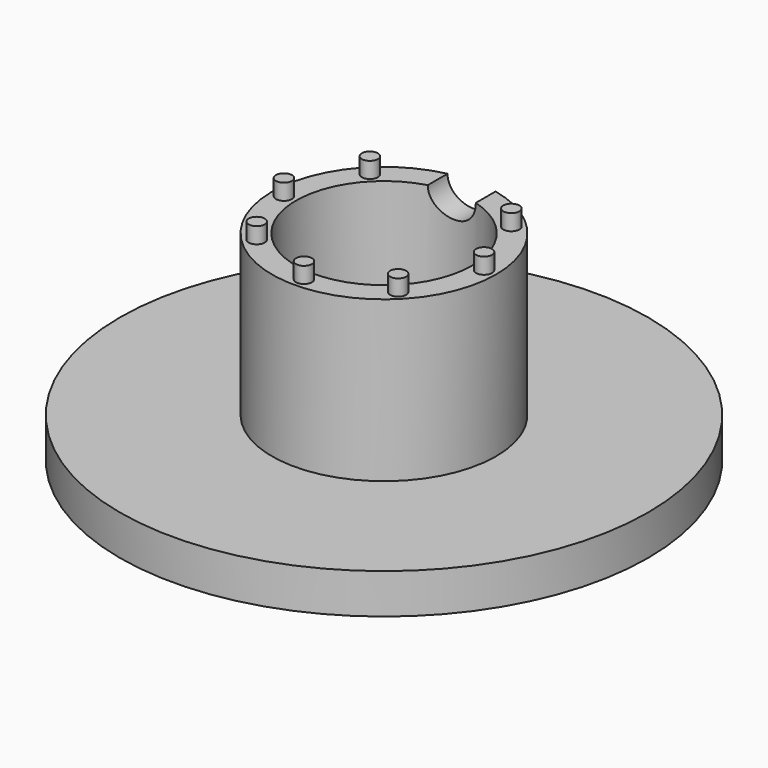
from build123d import *

# Parameters (mm, degrees)
F0_R     = 14
F0_R_2   = 11
F1_DEPTH = 25
F0_R_3   = 33
F2_DEPTH = 5
F3_R     = 3
F4_DEPTH = 25
F6_R     = 1
F7_DEPTH = 2


with BuildPart() as f1:
    # F0 (on Top) → F1 (new body)
    with BuildSketch(Plane.XY):
        Circle(F0_R)
        Circle(F0_R_2, mode=Mode.SUBTRACT)
    extrude(amount=F1_DEPTH)

    # F0 (on Top) → F2 (join)
    with BuildSketch(Plane.XY):
        Circle(F0_R_3)
        Circle(F0_R, mode=Mode.SUBTRACT)
    extrude(amount=F2_DEPTH)

    # F3 (on Front) → F4 (cut)
    with BuildSketch(Plane.XZ):
        with Locations((0, 25)):
            Circle(F3_R)
    extrude(amount=-F4_DEPTH, mode=Mode.SUBTRACT)

    # F6 (on offset) → F7 (join)
    with BuildSketch(Plane.XY.offset(25)):
        with Locations((-8.8388347648, 8.8388347648)):
            Circle(F6_R)
        with Locations((8.8388347648, 8.8388347648)):
            Circle(F6_R)
        with Locations((12.5, 0)):
            Circle(F6_R)
        with Locations((8.8388347648, -8.8388347648)):
            Circle(F6_R)
        with Locations((0, -12.5)):
            Circle(F6_R)
        with Locations((-8.8388347648, -8.8388347648)):
            Circle(F6_R)
        with Locations((-12.5, 0)):
            Circle(F6_R)
    extrude(amount=F7_DEPTH)


solid = f1.part
